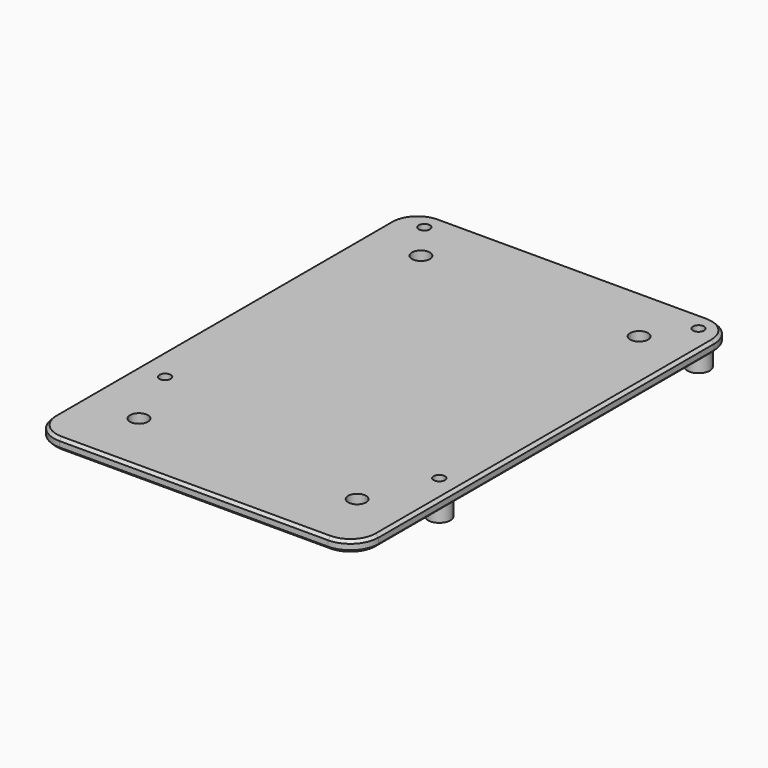
from build123d import *

# Parameters (mm, degrees)
F0_W      = 58
F0_H      = 2
F1_DEPTH  = 42.5
F2_R      = 5
F3_R      = 2
F3_R_2    = 1
F4_DEPTH  = 4
F4_FACE_R = 1
F3_R_3    = 1.6
F5_DEPTH  = 2
F6_SIZE   = 0.5


with BuildPart() as f1:
    # F0 (on Front) → F1 (new body, symmetric)
    with BuildSketch(Plane.XZ):
        with Locations((0, 1)):
            Rectangle(F0_W, F0_H)
    extrude(amount=F1_DEPTH, both=True)

    # F2
    f2_edges = [f1.edges().sort_by_distance(p)[0] for p in [
        (-29, 42.5, 1),
        (29, 42.5, 1),
        (29, -42.5, 1),
        (-29, -42.5, 1),
    ]]
    fillet(f2_edges, radius=F2_R)

    # F3 (on face) → F4 (join)
    with BuildSketch(Plane(origin=(0, 0, 0), x_dir=(1, 0, 0), z_dir=(0, 0, -1))):
        with Locations((-24, -39.02)):
            Circle(F3_R)
        with Locations((-24, -39.02)):
            Circle(F3_R_2, mode=Mode.SUBTRACT)
        with Locations((-24, 18.9)):
            Circle(F3_R)
        with Locations((-24, 18.9)):
            Circle(F3_R_2, mode=Mode.SUBTRACT)
        with Locations((25, -39.02)):
            Circle(F3_R)
        with Locations((25, -39.02)):
            Circle(F3_R_2, mode=Mode.SUBTRACT)
        with Locations((25, 18.9)):
            Circle(F3_R)
        with Locations((25, 18.9)):
            Circle(F3_R_2, mode=Mode.SUBTRACT)
    extrude(amount=F4_DEPTH)

    # F4_face (on face) + F3 (on face) → F5 (cut, through all)
    with BuildSketch(Plane(origin=(-24, 39.02, 0), x_dir=(1, 0, 0), z_dir=(0, 0, -1))):
        Circle(F4_FACE_R)
        with Locations((0, 57.92)):
            Circle(F4_FACE_R)
        with Locations((49, 57.92)):
            Circle(F4_FACE_R)
        with Locations((49, 0)):
            Circle(F4_FACE_R)
    with BuildSketch(Plane(origin=(0, 0, 0), x_dir=(1, 0, 0), z_dir=(0, 0, -1))):
        with Locations((-19, -32)):
            Circle(F3_R_3)
        with Locations((20, -32)):
            Circle(F3_R_3)
        with Locations((-19, 31)):
            Circle(F3_R_3)
        with Locations((20, 31)):
            Circle(F3_R_3)
    extrude(amount=-F5_DEPTH, mode=Mode.SUBTRACT)

    # F6
    f6_edges = [f1.edges().sort_by_distance(p)[0] for p in [
        (0, 42.5, 2),
        (29, 0, 0),
    ]]
    chamfer(f6_edges, length=F6_SIZE)


solid = f1.part
